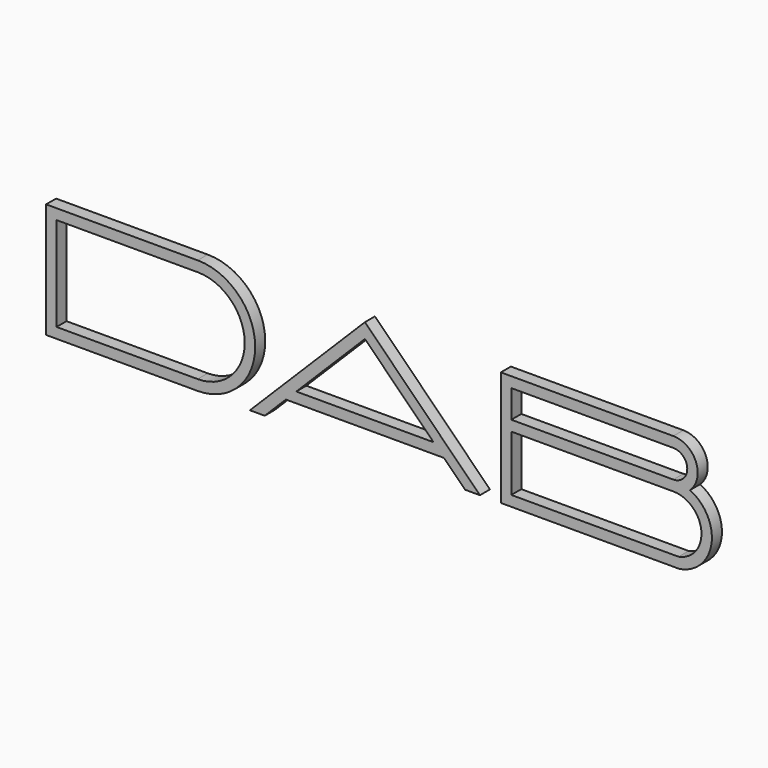
from build123d import *

# Parameters (mm, degrees)
F1_DEPTH = 1.2


with BuildPart() as f1:
    # F0 (on Front) → F1 (new body)
    with BuildSketch(Plane.XZ):
        with BuildLine():
            Line((0, 11), (0, 0))
            Line((0, 0), (14.5, 0))
            ThreePointArc((14.5, 0), (20, 5.5), (14.5, 11))
            Line((14.5, 11), (0, 11))
        make_face()
        with BuildLine():
            Line((14.5, 1), (1, 1))
            Line((1, 1), (1, 10))
            Line((1, 10), (14.5, 10))
            ThreePointArc((14.5, 10), (19, 5.5), (14.5, 1))
        make_face(mode=Mode.SUBTRACT)
        Polygon((30.5, 11), (19.5, 0), (20.914214, 0), (22.936261, 2.022048), (38.063739, 2.022048), (40.085786, 0), (41.5, 0), align=None)
        Polygon((23.936261, 3.022048), (30.5, 9.585786), (37.063739, 3.022048), align=None, mode=Mode.SUBTRACT)
        with BuildLine():
            Line((43.5, 11), (43.5, 0))
            Line((43.5, 0), (60.583511, 0))
            ThreePointArc((60.583511, 0), (63.651835, 3.111466), (61.599954, 6.969654))
            ThreePointArc((61.599954, 6.969654), (62.168152, 9.527961), (60, 11))
            Line((60, 11), (43.5, 11))
        make_face()
        with BuildLine():
            Line((60.497634, 1), (44.5, 1))
            Line((44.5, 1), (44.5, 6.334509))
            Line((44.5, 6.334509), (60, 6.334509))
            ThreePointArc((60, 6.334509), (62.678835, 3.893941), (60.497634, 1))
        make_face(mode=Mode.SUBTRACT)
        with BuildLine():
            Line((44.5, 7.334509), (44.5, 10))
            Line((44.5, 10), (60, 10))
            ThreePointArc((60, 10), (61.332745, 8.667255), (60, 7.334509))
            Line((60, 7.334509), (44.5, 7.334509))
        make_face(mode=Mode.SUBTRACT)
    extrude(amount=F1_DEPTH)


solid = f1.part
